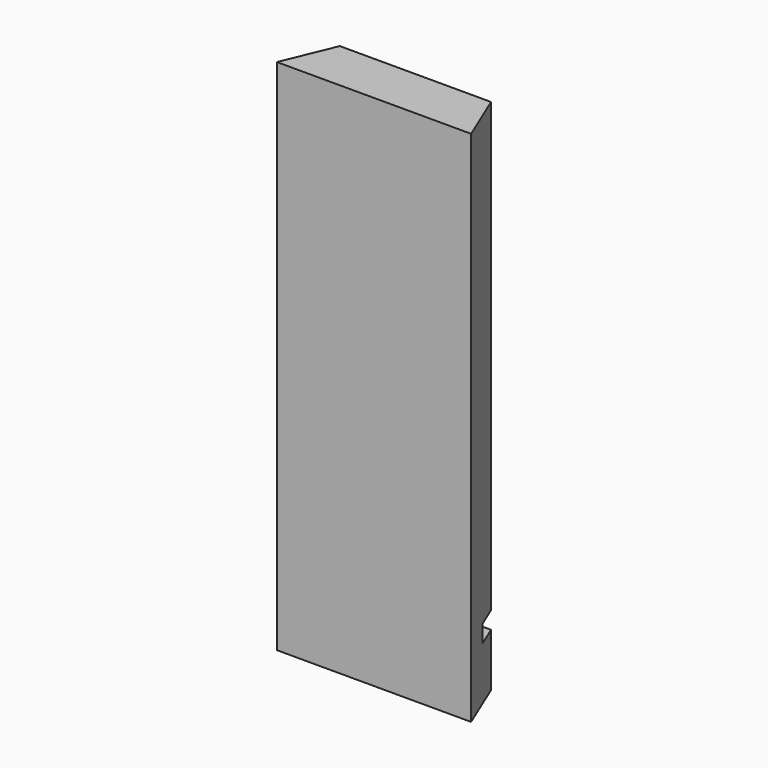
from build123d import *

# Parameters (mm, degrees)
F1_DEPTH = 120
F2_W     = 35.058874
F2_H     = 4.015654
F3_DEPTH = 5
F4_W     = 5
F4_H     = 4.015654
F5_DEPTH = 25
F6_W     = 5
F6_H     = 4.015654
F7_DEPTH = 25


with BuildPart() as f1:
    # F0 (on Top) → F1 (new body)
    with BuildSketch(Plane.XY):
        Polygon((-13.854021, -31.714595), (-18.824584, -43.714595), (26.175416, -43.714595), (21.204853, -31.714595), align=None)
    extrude(amount=F1_DEPTH)

    # F2 (on face) → F3 (cut)
    with BuildSketch(Plane(origin=(0, -31.714595, 0), x_dir=(-1, 0, 0), z_dir=(0, 1, 0))):
        with Locations((-3.675416, 14.314208)):
            Rectangle(F2_W, F2_H)
    extrude(amount=-F3_DEPTH, mode=Mode.SUBTRACT)

    # F4 (on face) → F5 (cut)
    with BuildSketch(Plane.YZ.offset(-13.854021)):
        with Locations((-34.214595, 14.314208)):
            Rectangle(F4_W, F4_H)
    extrude(amount=-F5_DEPTH, mode=Mode.SUBTRACT)

    # F6 (on face) → F7 (cut)
    with BuildSketch(Plane(origin=(21.204853, 0, 0), x_dir=(0, -1, 0), z_dir=(-1, 0, 0))):
        with Locations((34.214595, 14.314208)):
            Rectangle(F6_W, F6_H)
    extrude(amount=-F7_DEPTH, mode=Mode.SUBTRACT)


solid = f1.part
